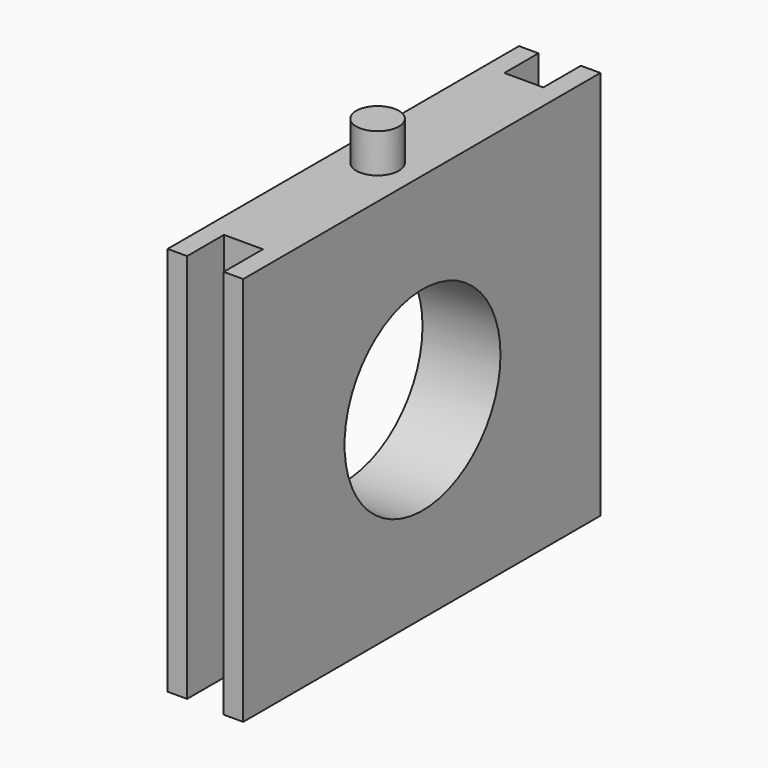
from build123d import *

# Parameters (mm, degrees)
F0_W     = 8.99
F0_H     = 10
F1_DEPTH = 1
F2_W     = 1.2572725254
F2_H     = 10
F2_W_2   = 1.20427544
F2_W_3   = 8.99
F3_DEPTH = 0.5
F4_W     = 1.095204528
F4_H     = 10
F4_W_2   = 8.99
F4_W_3   = 1.1806842821
F5_DEPTH = 0.5
F7_D     = 5
F8_R     = 0.546635634
F9_DEPTH = 1


with BuildPart() as f1:
    # F0 (on Right) → F1 (new body)
    with BuildSketch(Plane.YZ):
        with Locations((-15.5193753601, 5)):
            Rectangle(F0_W, F0_H)
        with Locations((-15.5193753601, 5)):
            Rectangle(F0_W, F0_H)
    extrude(amount=F1_DEPTH)

    # F2 (on face) → F3 (join)
    with BuildSketch(Plane.YZ.offset(1)):
        with Locations((-20.6430116228, 5)):
            Rectangle(F2_W, F2_H)
        with Locations((-10.4222376401, 5)):
            Rectangle(F2_W_2, F2_H)
        with Locations((-15.5193753601, 5)):
            Rectangle(F2_W_3, F2_H)
    extrude(amount=F3_DEPTH)

    # F4 (on face) → F5 (join)
    with BuildSketch(Plane(origin=(0, 0, 0), x_dir=(0, -1, 0), z_dir=(-1, 0, 0))):
        with Locations((10.4767730961, 5)):
            Rectangle(F4_W, F4_H)
        with Locations((15.5193753601, 5)):
            Rectangle(F4_W_2, F4_H)
        with Locations((20.6047175011, 5)):
            Rectangle(F4_W_3, F4_H)
    extrude(amount=F5_DEPTH)

    # F7 (through all)
    with Locations(Plane(origin=(-0.5, 0, 0), x_dir=(0, -1, 0), z_dir=(-1, 0, 0))):
        with Locations((15.5227221549, 4.934320692)):
            Hole(F7_D / 2)

    # F8 (on face) → F9 (join)
    with BuildSketch(Plane.XY.offset(10)):
        with Locations((0.453364366, -15.6560353935)):
            Circle(F8_R)
    extrude(amount=F9_DEPTH)


solid = f1.part
